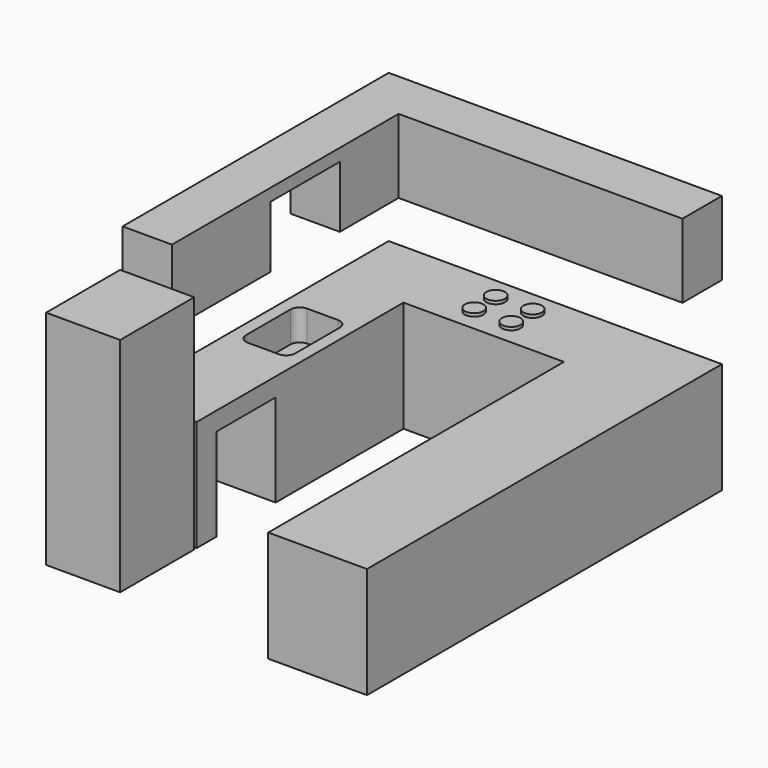
from build123d import *

# Parameters (mm, degrees)
F1_DEPTH  = 914.4
F2_W      = 609.6
F2_H      = 762
F3_DEPTH  = 1828.8
F4_W      = 609.6
F4_H      = 762
F5_DEPTH  = 508
F7_DEPTH  = 254
F8_R      = 76.2
F9_DEPTH  = 25.4
F11_DEPTH = 406.4
F12_W     = 2336.8
F12_H     = 609.6
F13_DEPTH = 406.4


with BuildPart() as f1:
    # F0 (on Top) → F1 (new body)
    with BuildSketch(Plane.XY):
        Polygon((558.8, -1826.26), (1371.6, -1826.26), (1371.6, 1826.26), (-1371.6, 1826.26), (-1371.6, -911.86), (-762, -911.86), (-762, 1216.66), (558.8, 1216.66), align=None)
    extrude(amount=F1_DEPTH)

    # F4 (on face) → F5 (cut)
    with BuildSketch(Plane.YZ.offset(-762)):
        with Locations((-403.86, 381)):
            Rectangle(F4_W, F4_H)
    extrude(amount=-F5_DEPTH, mode=Mode.SUBTRACT)

    # F6 (on face) → F7 (cut)
    with BuildSketch(Plane.XY.offset(914.4)):
        with BuildLine():
            ThreePointArc((-1270, 231.14), (-1247.681537, 177.258463), (-1193.8, 154.94))
            Line((-1193.8, 154.94), (-939.8, 154.94))
            ThreePointArc((-939.8, 154.94), (-885.918463, 177.258463), (-863.6, 231.14))
            Line((-863.6, 231.14), (-863.6, 688.34))
            ThreePointArc((-863.6, 688.34), (-885.918463, 742.221537), (-939.8, 764.54))
            Line((-939.8, 764.54), (-1193.8, 764.54))
            ThreePointArc((-1193.8, 764.54), (-1247.681537, 742.221537), (-1270, 688.34))
            Line((-1270, 688.34), (-1270, 231.14))
        make_face()
    extrude(amount=-F7_DEPTH, mode=Mode.SUBTRACT)

    # F8 (on face) → F9 (join)
    with BuildSketch(Plane.XY.offset(914.4)):
        with Locations((-331.948876, 1406.093359)):
            Circle(F8_R)
        with Locations((-331.948876, 1627.455469)):
            Circle(F8_R)
        with Locations((-27.148876, 1406.093359)):
            Circle(F8_R)
        with Locations((-27.148876, 1627.455469)):
            Circle(F8_R)
    extrude(amount=F9_DEPTH)


with BuildPart() as f3:
    # F2 (on Top) → F3 (new body)
    with BuildSketch(Plane.XY):
        with Locations((-1066.8, -1318.26)):
            Rectangle(F2_W, F2_H)
    extrude(amount=F3_DEPTH)


with BuildPart() as f11:
    # F10 (on face) → F11 (new body)
    with BuildSketch(Plane(origin=(-1371.6, 0, 0), x_dir=(0, -1, 0), z_dir=(-1, 0, 0))):
        Polygon((911.86, 2133.6), (-1826.26, 2133.6), (-1826.26, 1524), (-815.34, 1524), (-815.34, 2032), (-104.14, 2032), (-104.14, 1524), (911.86, 1524), align=None)
    extrude(amount=-F11_DEPTH)

    # F12 (on face) → F13 (join)
    with BuildSketch(Plane(origin=(0, 1826.26, 0), x_dir=(-1, 0, 0), z_dir=(0, 1, 0))):
        with Locations((-203.2, 1828.8)):
            Rectangle(F12_W, F12_H)
    extrude(amount=-F13_DEPTH)


solid = Compound([f1.part, f3.part, f11.part])
